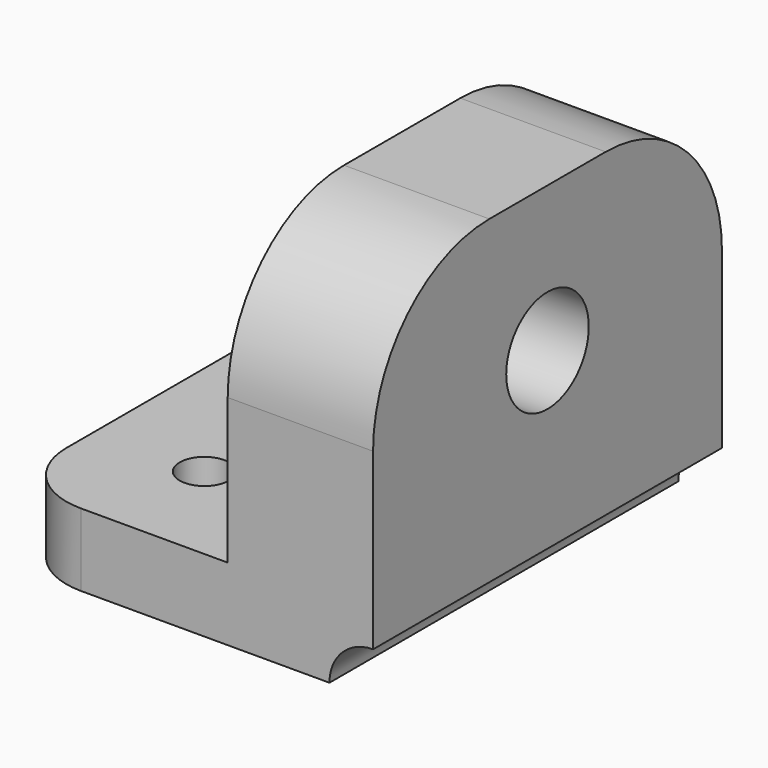
from build123d import *

# Parameters (mm, degrees)
PAD_DEPTH     = 5
SKETCH001_R   = 1.7
HOLE_DEPTH    = 72.8243
SKETCH002_W   = 30
SKETCH002_H   = 5
PAD001_DEPTH  = 10.1
SKETCH003_W   = 10
SKETCH003_H   = 30
PAD002_DEPTH  = 20
SKETCH005_R   = 3.55
HOLE001_DEPTH = 10.001
POCKET_DEPTH  = 30.001
FILLET_R      = 10


with BuildPart() as part:
    # Sketch → Pad (new body)
    with BuildSketch(Plane.XY):
        with BuildLine():
            Line((-15, 0), (0, 0))
            Line((0, 0), (0, 15))
            Line((0, 15), (-10, 15))
            ThreePointArc((-10, 15), (-13.535534, 13.535534), (-15, 10))
            Line((-15, 10), (-15, 0))
        make_face()
    pad = extrude(amount=PAD_DEPTH)

    # Mirrored: Pad across XZ
    add(pad.mirror(Plane.XZ))

    # Sketch001 (on Face5 of Mirrored) → Hole (cut, through all)
    with BuildSketch(Plane.XY.offset(5)):
        with Locations((-7.5, 7.5)):
            Circle(SKETCH001_R)
    hole = extrude(amount=-HOLE_DEPTH, mode=Mode.SUBTRACT)

    # Mirrored001: Hole across XZ
    add(hole.mirror(Plane.XZ), mode=Mode.SUBTRACT)

    # Sketch002 (on Face2 of Mirrored001) → Pad001 (join)
    with BuildSketch(Plane.YZ):
        with Locations((0, 2.5)):
            Rectangle(SKETCH002_W, SKETCH002_H)
    extrude(amount=PAD001_DEPTH)

    # Sketch003 (on Face7 of Pad001) → Pad002 (join)
    with BuildSketch(Plane.XY.offset(5)):
        with Locations((5.1, 0)):
            Rectangle(SKETCH003_W, SKETCH003_H)
    extrude(amount=PAD002_DEPTH)

    # Sketch005 (on Face15 of Pad002) → Hole001 (cut, through all)
    with BuildSketch(Plane(origin=(0.1, 0, 0), x_dir=(0, -1, 0), z_dir=(-1, 0, 0))):
        with Locations((0, 15)):
            Circle(SKETCH005_R)
    extrude(amount=-HOLE001_DEPTH, mode=Mode.SUBTRACT)

    # Sketch006 (on Face14 of Hole001) → Pocket (cut, through all)
    with BuildSketch(Plane.XZ.offset(15)):
        with BuildLine():
            ThreePointArc((10.1, 3), (7.97868, 2.12132), (7.1, 0))
            Line((10.1, 0), (7.1, 0))
            Line((10.1, 3), (10.1, 0))
        make_face()
    extrude(amount=-POCKET_DEPTH, mode=Mode.SUBTRACT)

    # Fillet
    fillet_edges = [part.edges().sort_by_distance(p)[0] for p in [
        (5.1, -15, 25),
        (5.1, 15, 25),
    ]]
    fillet(fillet_edges, radius=FILLET_R)


solid = part.part
